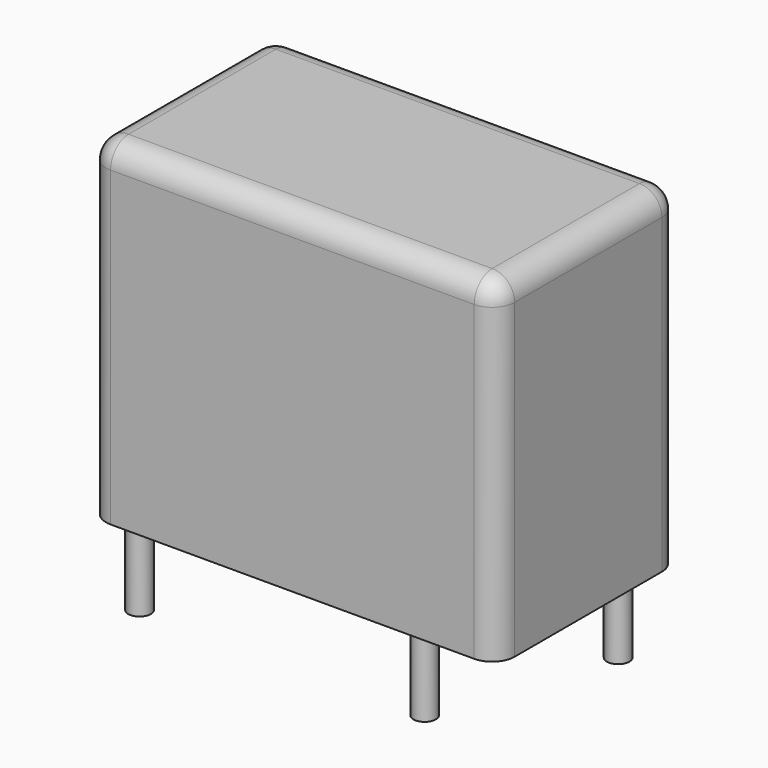
from build123d import *

# Parameters (mm, degrees)
F0_W     = 18.2
F0_H     = 10.2
F1_DEPTH = 14.9
F2_R     = 1
F3_R     = 0.5
F4_DEPTH = 3.8


with BuildPart() as f1:
    # F0 (on Top) → F1 (new body)
    with BuildSketch(Plane.XY):
        Rectangle(F0_W, F0_H)
    extrude(amount=F1_DEPTH)

    # F2
    f2_edges = [f1.edges().sort_by_distance(p)[0] for p in [
        (0, -5.1, 14.9),
        (9.1, 0, 14.9),
        (0, 5.1, 14.9),
        (-9.1, 0, 14.9),
        (9.1, -5.1, 7.45),
        (9.1, 5.1, 7.45),
        (-9.1, -5.1, 7.45),
        (-9.1, 5.1, 7.45),
    ]]
    fillet(f2_edges, radius=F2_R)


with BuildPart() as f4:
    # F3 (on face) → F4 (new body)
    with BuildSketch(Plane(origin=(0, 0, 0), x_dir=(1, 0, 0), z_dir=(0, 0, -1))):
        with Locations((-7.85, 3.8)):
            Circle(F3_R)
        with Locations((-7.85, -3.8)):
            Circle(F3_R)
        with Locations((4.85, 3.8)):
            Circle(F3_R)
        with Locations((7.39, -3.8)):
            Circle(F3_R)
    extrude(amount=F4_DEPTH)


solid = Compound([f1.part, f4.part])
